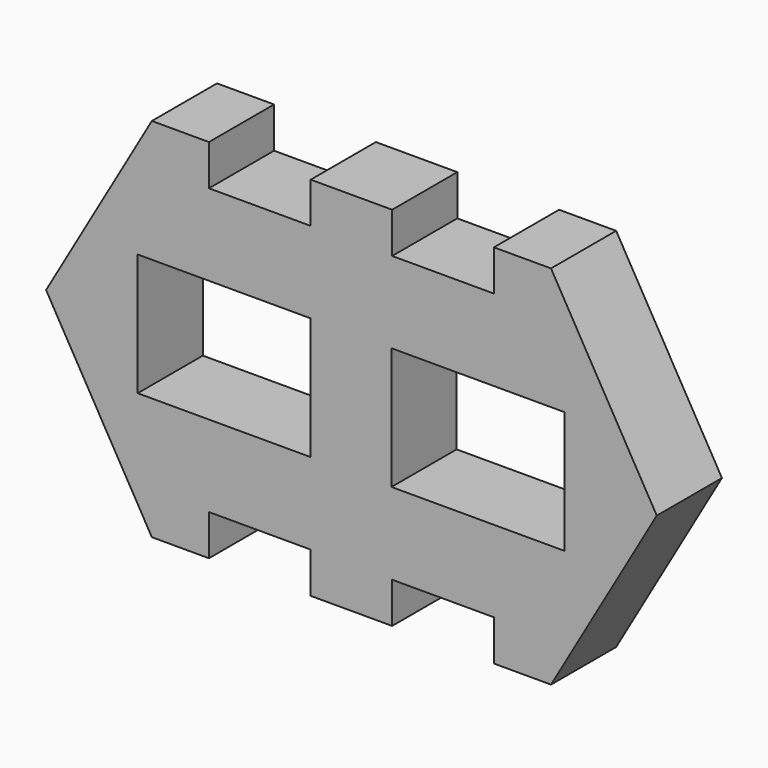
from build123d import *

# Parameters (mm, degrees)
F0_W     = 53.975
F0_H     = 38.1
F1_DEPTH = 25.4


with BuildPart() as f1:
    # F0 (on Front) → F1 (new body)
    with BuildSketch(Plane.XZ):
        Polygon((-31.75, 101.6), (-49.554432, 101.6), (-82.55, 44.45), (-49.554432, -12.7), (-31.75, -12.7), (-31.75, 0), (0, 0), (0, -12.7), (25.4, -12.7), (25.4, 0), (57.15, 0), (57.15, -12.7), (74.954432, -12.7), (107.95, 44.45), (74.954432, 101.6), (57.15, 101.6), (57.15, 88.9), (25.4, 88.9), (25.4, 101.6), (0, 101.6), (0, 88.9), (-31.75, 88.9), align=None)
        with Locations((-26.9875, 44.45)):
            Rectangle(F0_W, F0_H, mode=Mode.SUBTRACT)
        with Locations((52.185358, 44.45)):
            Rectangle(F0_W, F0_H, mode=Mode.SUBTRACT)
    extrude(amount=F1_DEPTH)


solid = f1.part
